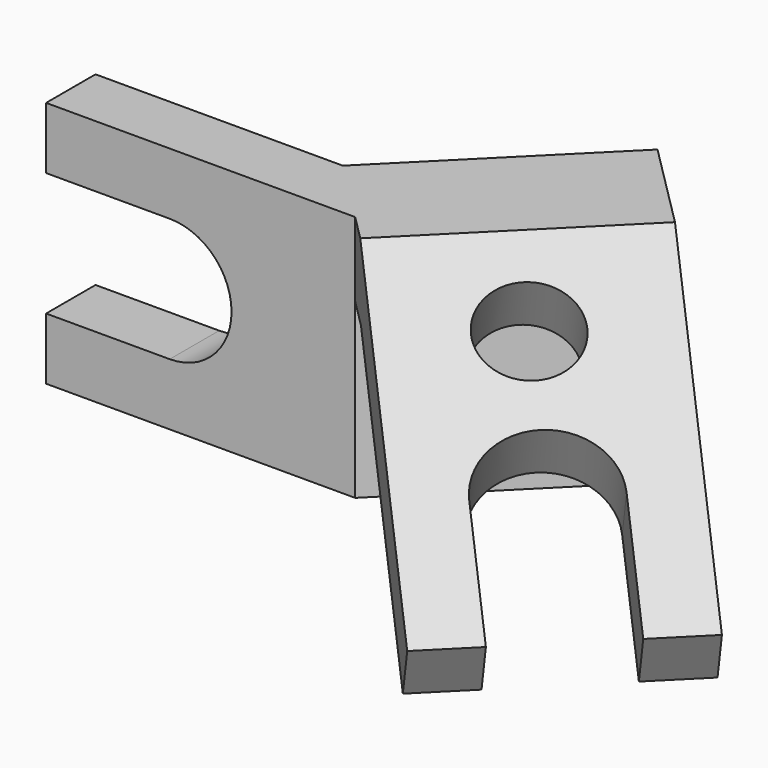
from build123d import *

# Parameters (mm, degrees)
F4_DEPTH = 100
F5_DEPTH = 100
F7_DEPTH = 25
F8_R     = 18.5
F9_DEPTH = 25


with BuildPart() as f4:
    # F0 (on Top) → F4 (new body)
    with BuildSketch(Plane.XY):
        Polygon((-100, -25), (25, -25), (95.7106781187, 45.7106781187), (70.7106781187, 70.7106781187), (0, 0), (-100, 0), align=None)
    extrude(amount=-F4_DEPTH)

    # F3 (on 3pt) → F5 (join)
    with BuildSketch(Plane(origin=(0, 0, 0), x_dir=(0.7071067812, -0.7071067812, 0), z_dir=(-0.7071067812, -0.7071067812, 0))):
        Polygon((0, 0), (0, -30), (51.9615242271, -30), (171.7339375866, -99.1506350946), (184.2339375866, -77.5), (50, 0), align=None)
    extrude(amount=-F5_DEPTH)

    # F6 (on face) → F7 (cut, through all)
    with BuildSketch(Plane.XZ.offset(25)):
        with BuildLine():
            Line((-50, -25), (-100, -25))
            Line((-100, -25), (-100, -75))
            Line((-100, -75), (-50, -75))
            ThreePointArc((-50, -75), (-25, -50), (-50, -25))
        make_face()
    extrude(amount=-F7_DEPTH, mode=Mode.SUBTRACT)

    # F8 (on face) → F9 (cut, through all)
    with BuildSketch(Plane(origin=(8.8388347648, -8.8388347648, 21.6506350946), x_dir=(0.9354143467, 0.133630621, -0.3273268354), z_dir=(0.3535533906, -0.3535533906, 0.8660254038))):
        with Locations((91.0206222635, -28.7252999487)):
            Circle(F8_R)
        with BuildLine():
            Line((112.710926197, -91.9592363695), (148.7168780859, -133.5353284006))
            Line((148.7168780859, -133.5353284006), (186.5133253868, -100.8026448652))
            Line((186.5133253868, -100.8026448652), (150.5073734979, -59.2265528341))
            ThreePointArc((150.5073734979, -59.2265528341), (115.2428080797, -56.6946709514), (112.710926197, -91.9592363695))
        make_face()
    extrude(amount=-F9_DEPTH, mode=Mode.SUBTRACT)


solid = f4.part
